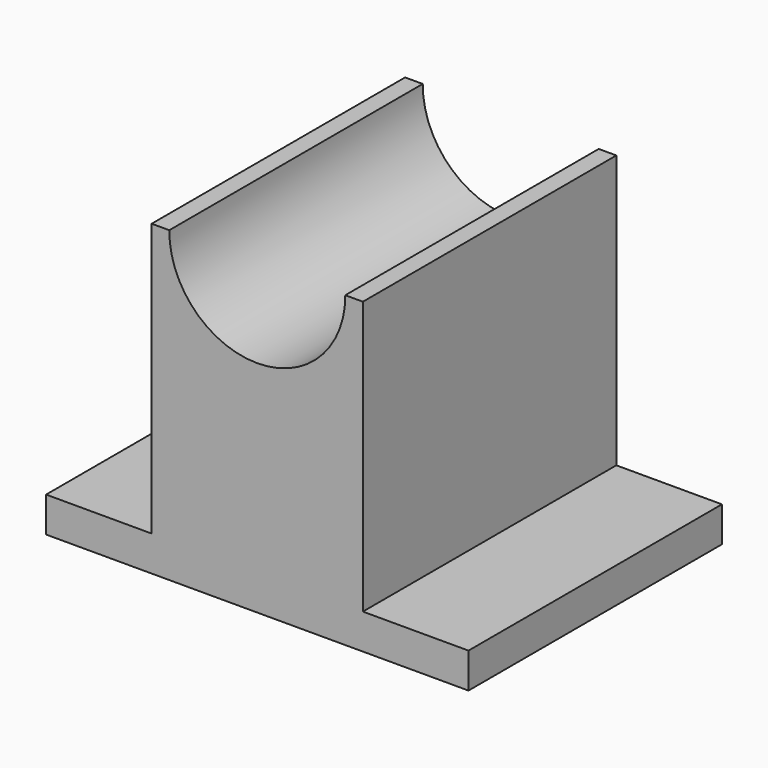
from build123d import *

# Parameters (mm, degrees)
F1_DEPTH = 114.3
F3_DEPTH = 114.3
F5_DEPTH = 114.301


with BuildPart() as f1:
    # F0 (on Front) → F1 (new body)
    with BuildSketch(Plane.XZ):
        Polygon((38.1, 0), (0, 0), (0, -12.7), (152.4, -12.7), (152.4, 0), (114.3, 0), (114.3, 98.425), (38.1, 98.425), align=None)
    extrude(amount=F1_DEPTH)

    # F2 (on face) → F3 (cut)
    with BuildSketch(Plane.XZ.offset(114.3)):
        with BuildLine():
            Line((107.95, 98.425), (44.45, 98.425))
            ThreePointArc((44.45, 98.425), (76.2, 89.917613), (107.95, 98.425))
        make_face()
    extrude(amount=-F3_DEPTH, mode=Mode.SUBTRACT)

    # F4 (on face) → F5 (cut, through all)
    with BuildSketch(Plane.XZ.offset(114.3)):
        with BuildLine():
            ThreePointArc((107.95, 98.425), (76.2, 89.917613), (44.45, 98.425))
            ThreePointArc((44.45, 98.425), (76.2, 66.496828), (107.95, 98.425))
        make_face()
    extrude(amount=-F5_DEPTH, mode=Mode.SUBTRACT)


solid = f1.part
